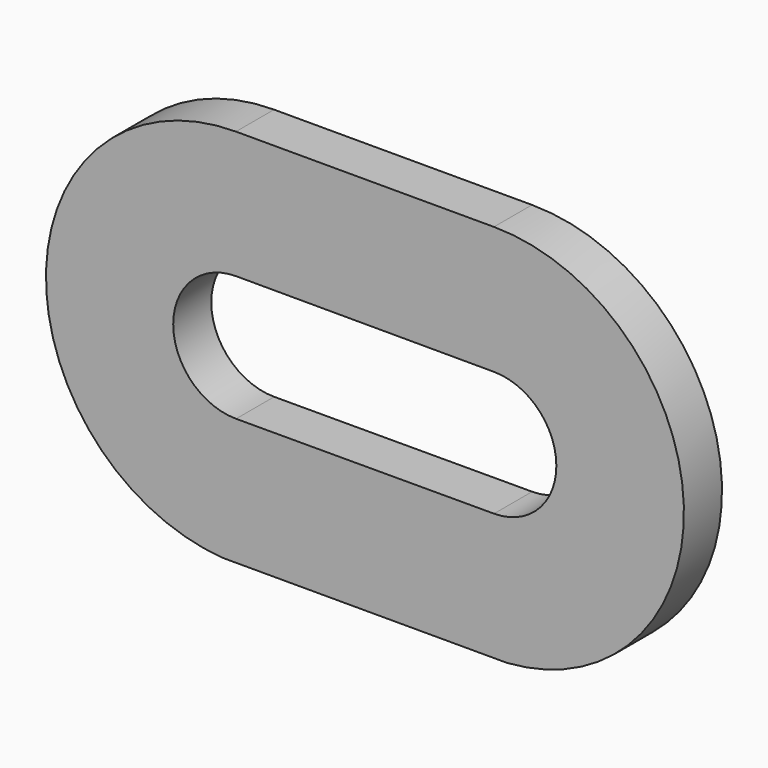
from build123d import *

# Parameters (mm, degrees)
F1_DEPTH = 3.175


with BuildPart() as f1:
    # F0 (on Front) → F1 (new body)
    with BuildSketch(Plane.XZ):
        with BuildLine():
            Line((-9.992783, -12.638227), (8.961562, -12.638227))
            ThreePointArc((8.961562, -12.638227), (20.74528, 0.439046), (8.084128, 12.668776))
            Line((8.084128, 12.668776), (-9.114507, 12.668711))
            ThreePointArc((-9.114507, 12.668711), (-21.775548, 0.439403), (-9.992783, -12.638227))
        make_face()
        with BuildLine():
            ThreePointArc((-9.108698, -4.185383), (-13.299846, -1.6e-05), (-9.108729, 4.185383))
            Line((-9.108729, 4.185383), (8.089874, 4.161838))
            ThreePointArc((8.089874, 4.161838), (12.245952, 8.1e-05), (8.089905, -4.161707))
            Line((8.089905, -4.161707), (-9.108698, -4.185383))
        make_face(mode=Mode.SUBTRACT)
    extrude(amount=F1_DEPTH)


solid = f1.part
